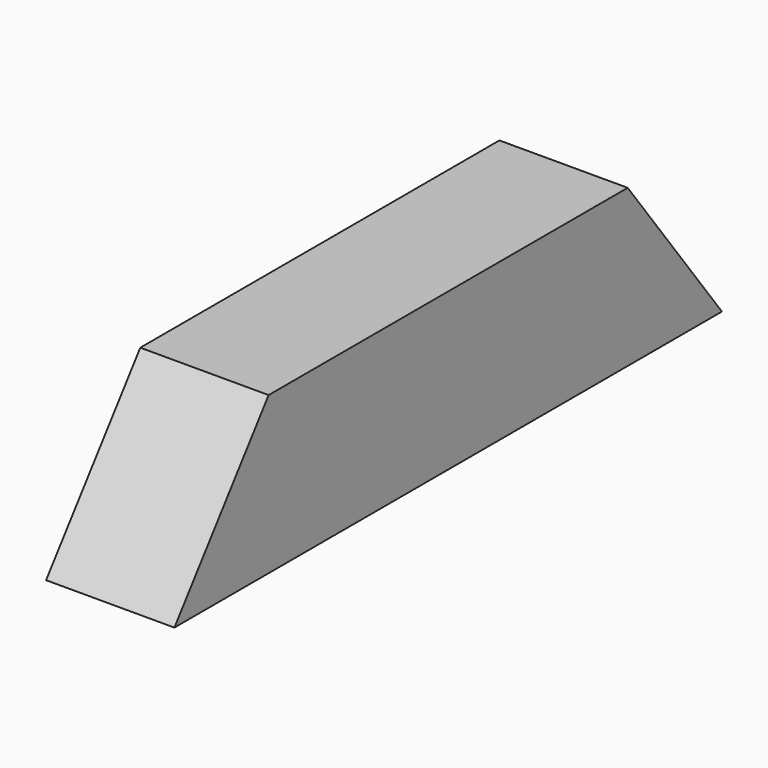
from build123d import *

# Parameters (mm, degrees)
F0_W     = 35
F0_H     = 240
F1_DEPTH = 3
F2_W     = 240
F2_H     = 55
F3_DEPTH = 22.5
F5_DEPTH = 45.001


with BuildPart() as f1:
    # F0 (on Top) → F1 (new body)
    with BuildSketch(Plane.XY):
        Rectangle(F0_W, F0_H)
    extrude(amount=F1_DEPTH)

    # F2 (on Right) → F3 (join, symmetric)
    with BuildSketch(Plane.YZ):
        with Locations((0, 27.5)):
            Rectangle(F2_W, F2_H)
    extrude(amount=F3_DEPTH, both=True)

    # F4 (on face) → F5 (cut, through all)
    with BuildSketch(Plane.YZ.offset(22.5)):
        Polygon((-120, 55), (-120, 0), (-78.704832, 55), align=None)
        Polygon((78.704832, 55), (120, 0), (120, 55), align=None)
    extrude(amount=-F5_DEPTH, mode=Mode.SUBTRACT)


solid = f1.part
